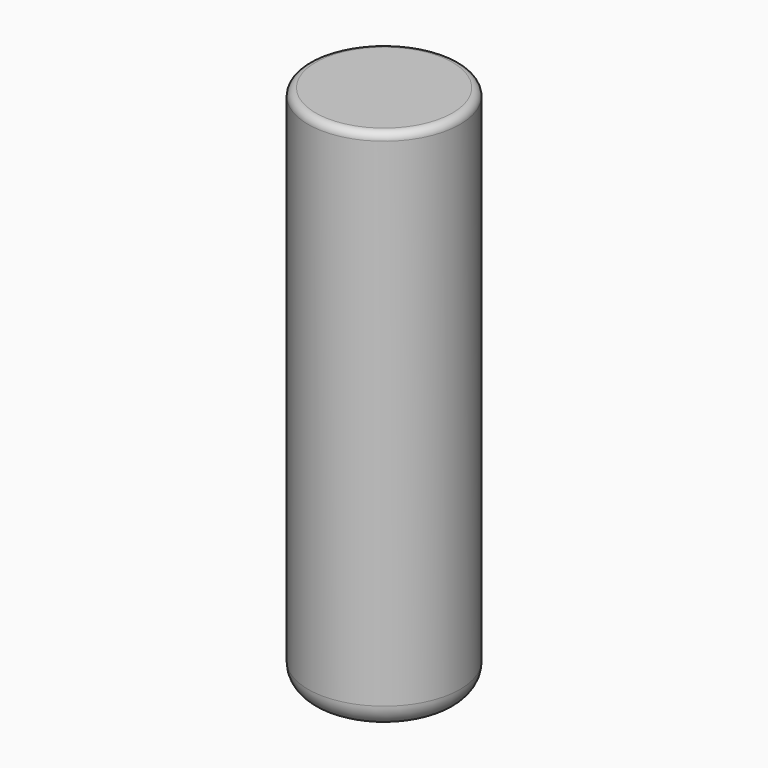
from build123d import *

# Parameters (mm, degrees)
SKETCH007_R  = 1
PAD003_DEPTH = 6.9375
FILLET002_R  = 0.1
FILLET003_R  = 0.3


with BuildPart() as part:
    # Sketch007 → Pad003 (new body)
    with BuildSketch(Plane.XY):
        with Locations((3.75, 3.85)):
            Circle(SKETCH007_R)
    extrude(amount=PAD003_DEPTH)

    # Fillet002
    fillet002_edges = [part.edges().sort_by_distance(p)[0] for p in [
        (2.75, 3.85, 6.9375),
    ]]
    fillet(fillet002_edges, radius=FILLET002_R)

    # Fillet003
    fillet003_edges = [part.edges().sort_by_distance(p)[0] for p in [
        (2.75, 3.85, 0),
    ]]
    fillet(fillet003_edges, radius=FILLET003_R)


solid = part.part
